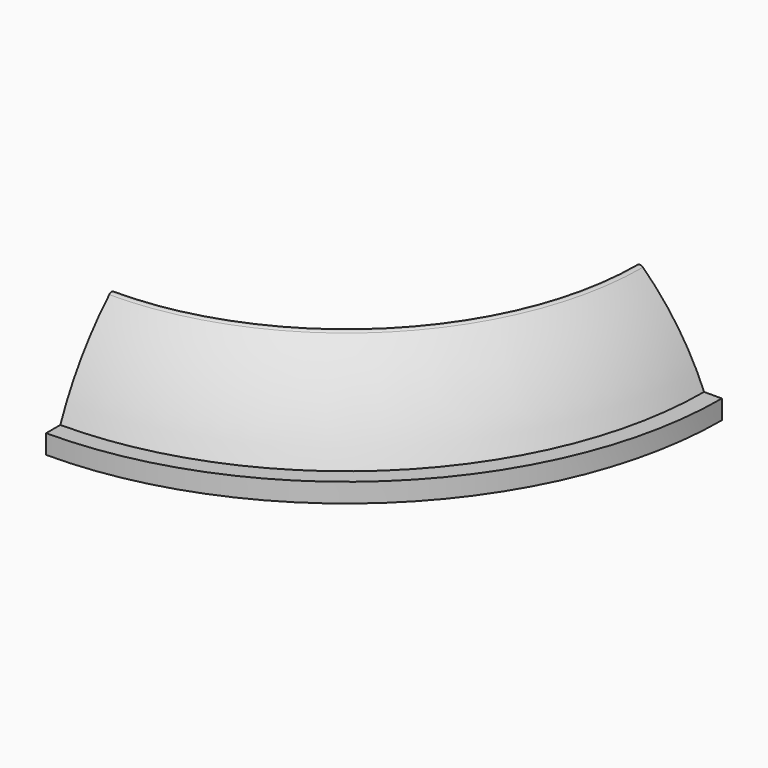
from build123d import *

# Parameters (mm, degrees)
F1_ANGLE = 90


with BuildPart() as f1:
    # F0 (on Front) → F1 (revolve)
    with BuildSketch(Plane.XZ):
        with BuildLine():
            Line((152.4, 4.7625), (152.4, 0))
            Line((152.4, 0), (155.575, 0))
            Line((155.575, 0), (155.575, 7.9375))
            Line((155.575, 7.9375), (148.195857, 7.9375))
            ThreePointArc((148.195857, 7.9375), (137.447355, 27.85258), (122.85325, 45.148614))
            ThreePointArc((122.85325, 45.148614), (120.488449, 45.222947), (120.65, 42.8625))
            ThreePointArc((120.65, 42.8625), (135.414004, 25.188502), (146.05, 4.7625))
            Line((146.05, 4.7625), (152.4, 4.7625))
        make_face()
    revolve(axis=Axis((0, 0, 21.596912), (0, 0, -1)), revolution_arc=F1_ANGLE)


solid = f1.part
